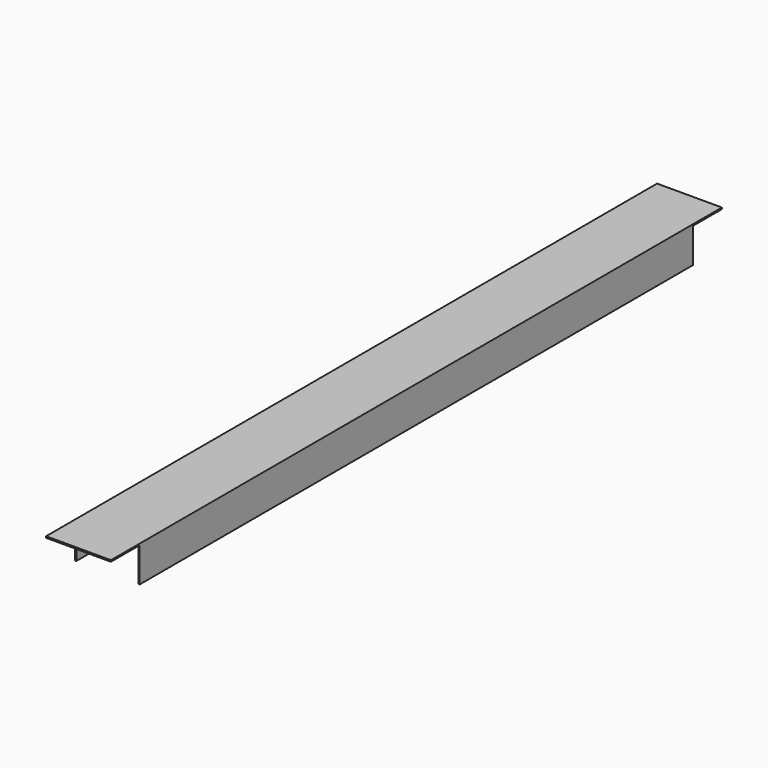
from build123d import *

# Parameters (mm, degrees)
F0_W     = 45
F0_H     = 530
F1_DEPTH = 25
F2_W     = 45
F2_H     = 24
F3_DEPTH = 25
F4_W     = 45
F4_H     = 24
F5_DEPTH = 25
F6_W     = 43
F6_H     = 24
F7_DEPTH = 505.001


with BuildPart() as f1:
    # F0 (on Top) → F1 (new body)
    with BuildSketch(Plane.XY):
        with Locations((22.5, 265)):
            Rectangle(F0_W, F0_H)
    extrude(amount=-F1_DEPTH)

    # F2 (on face) → F3 (cut)
    with BuildSketch(Plane.XZ):
        with Locations((22.5, -13)):
            Rectangle(F2_W, F2_H)
    extrude(amount=-F3_DEPTH, mode=Mode.SUBTRACT)

    # F4 (on face) → F5 (cut)
    with BuildSketch(Plane(origin=(0, 530, 0), x_dir=(-1, 0, 0), z_dir=(0, 1, 0))):
        with Locations((-22.5, -13)):
            Rectangle(F4_W, F4_H)
    extrude(amount=-F5_DEPTH, mode=Mode.SUBTRACT)

    # F6 (on face) → F7 (cut, through all)
    with BuildSketch(Plane(origin=(0, 505, 0), x_dir=(-1, 0, 0), z_dir=(0, 1, 0))):
        with Locations((-22.5, -13)):
            Rectangle(F6_W, F6_H)
    extrude(amount=-F7_DEPTH, mode=Mode.SUBTRACT)


solid = f1.part
